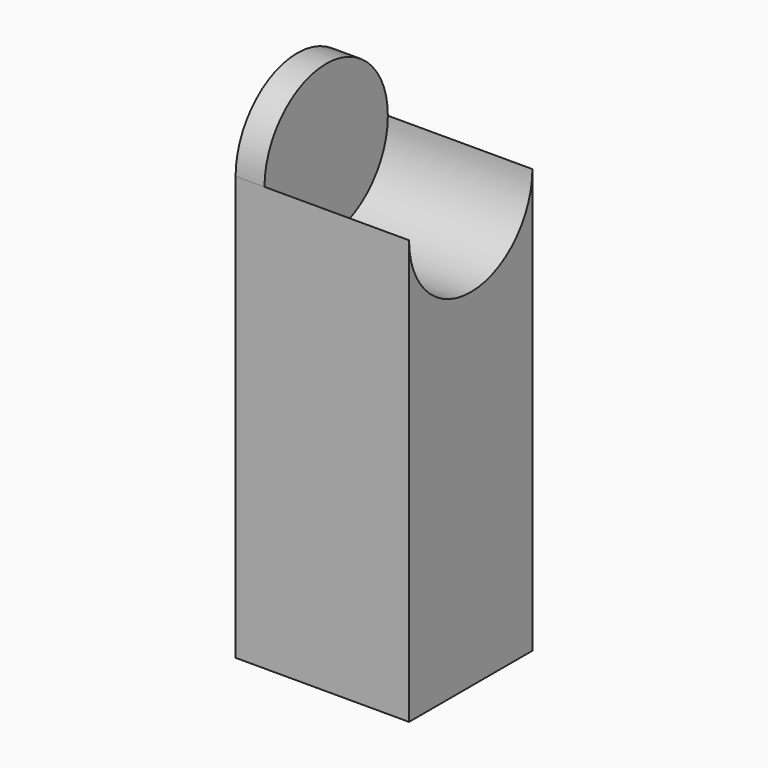
from build123d import *

# Parameters (mm, degrees)
F1_DEPTH = 19.05
F2_DEPTH = 114.3
F3_W     = 114.3
F3_H     = 101.6
F4_DEPTH = 177.8


with BuildPart() as f1:
    # F0 (on Right) → F1 (new body)
    with BuildSketch(Plane.YZ):
        with BuildLine():
            Line((-50.8, 0), (50.8, 0))
            ThreePointArc((50.8, 0), (0, 50.8), (-50.8, 0))
        make_face()
        with BuildLine():
            Line((50.8, -101.6), (50.8, 0))
            ThreePointArc((50.8, 0), (0, -50.8), (-50.8, 0))
            Line((-50.8, 0), (-50.8, -101.6))
            Line((-50.8, -101.6), (50.8, -101.6))
        make_face()
        with BuildLine():
            ThreePointArc((-50.8, 0), (0, -50.8), (50.8, 0))
            Line((50.8, 0), (-50.8, 0))
        make_face()
    extrude(amount=F1_DEPTH)

    # F0 (on Right) → F2 (join)
    with BuildSketch(Plane.YZ):
        with BuildLine():
            Line((50.8, -101.6), (50.8, 0))
            ThreePointArc((50.8, 0), (0, -50.8), (-50.8, 0))
            Line((-50.8, 0), (-50.8, -101.6))
            Line((-50.8, -101.6), (50.8, -101.6))
        make_face()
    extrude(amount=F2_DEPTH)

    # F3 (on face) → F4 (join)
    with BuildSketch(Plane(origin=(0, 0, -101.6), x_dir=(1, 0, 0), z_dir=(0, 0, -1))):
        with Locations((57.15, 0)):
            Rectangle(F3_W, F3_H)
    extrude(amount=F4_DEPTH)


solid = f1.part
